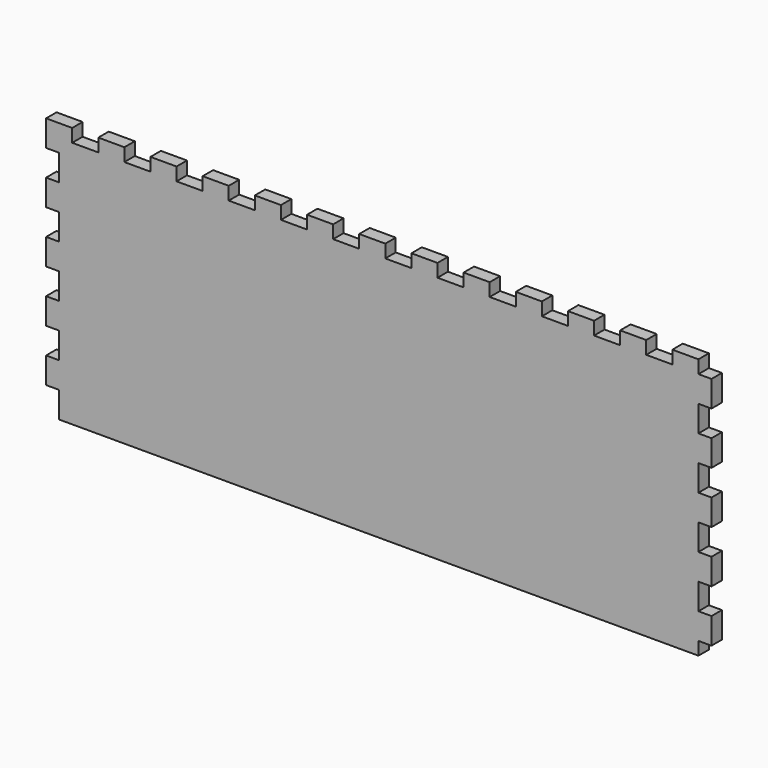
from build123d import *

# Parameters (mm, degrees)
SKETCH051_W             = 95
SKETCH051_H             = 250
PAD035_DEPTH            = 5
SKETCH056_W             = 10
SKETCH056_H             = 5
PAD040_DEPTH            = 5
LINEARPATTERN031_COUNT  = 5
LINEARPATTERN031_PITCH  = 20
SKETCH062_W             = 10
SKETCH062_H             = 5
PAD043_DEPTH            = 5
LINEARPATTERN037_COUNT  = 13
LINEARPATTERN037_PITCH  = 20
SKETCH069_W             = 10
SKETCH069_H             = 5
POCKET022_DEPTH         = 5
LINEARPATTERN044_COUNT  = 5
LINEARPATTERN044_PITCH  = 20
BODY014_PITCH_ANGLE     = -90
BODY014_PLACEMENT_ANGLE = 90


with BuildPart() as part:
    # Sketch051 → Pad035 (new body)
    with BuildSketch(Plane.XY):
        Rectangle(SKETCH051_W, SKETCH051_H)
    extrude(amount=PAD035_DEPTH)

    # Sketch056 (on DatumPlane) → Pad040 (join)
    with BuildSketch(Plane.XZ.offset(125)):
        with Locations((-37.5, 2.5)):
            Rectangle(SKETCH056_W, SKETCH056_H)
    pad040 = extrude(amount=PAD040_DEPTH)

    # LinearPattern031: Pad040 ×5
    with Locations(*[(i * LINEARPATTERN031_PITCH, 0, 0) for i in range(1, LINEARPATTERN031_COUNT)]):
        add(pad040)

    # Sketch062 (on DatumPlane) → Pad043 (join)
    with BuildSketch(Plane.YZ.offset(47.5)):
        with Locations((-120, 2.5)):
            Rectangle(SKETCH062_W, SKETCH062_H)
    pad043 = extrude(amount=PAD043_DEPTH)

    # LinearPattern037: Pad043 ×13
    with Locations(*[(0, i * LINEARPATTERN037_PITCH, 0) for i in range(1, LINEARPATTERN037_COUNT)]):
        add(pad043)

    # Sketch069 (on DatumPlane) → Pocket022 (cut)
    with BuildSketch(Plane(origin=(0, 125, 0), x_dir=(-1, 0, 0), z_dir=(0, 1, 0))):
        with Locations((-37.5, 2.5)):
            Rectangle(SKETCH069_W, SKETCH069_H)
    pocket022 = extrude(amount=-POCKET022_DEPTH, mode=Mode.SUBTRACT)

    # LinearPattern044: Pocket022 ×5
    with Locations(*[(-i * LINEARPATTERN044_PITCH, 0, 0) for i in range(1, LINEARPATTERN044_COUNT)]):
        add(pocket022, mode=Mode.SUBTRACT)


with BuildPart() as part_1:
    # Body014 pitch: moved
    add(part.part.rotate(Axis((0, 0, 0), (0, 1, 0)), BODY014_PITCH_ANGLE))


with BuildPart() as part_2:
    # Body014 placement: moved
    add(part_1.part.moved(Location((125, 150, 152.5))).rotate(Axis((125, 150, 152.5), (0, 0, 1)), BODY014_PLACEMENT_ANGLE))


solid = part_2.part
